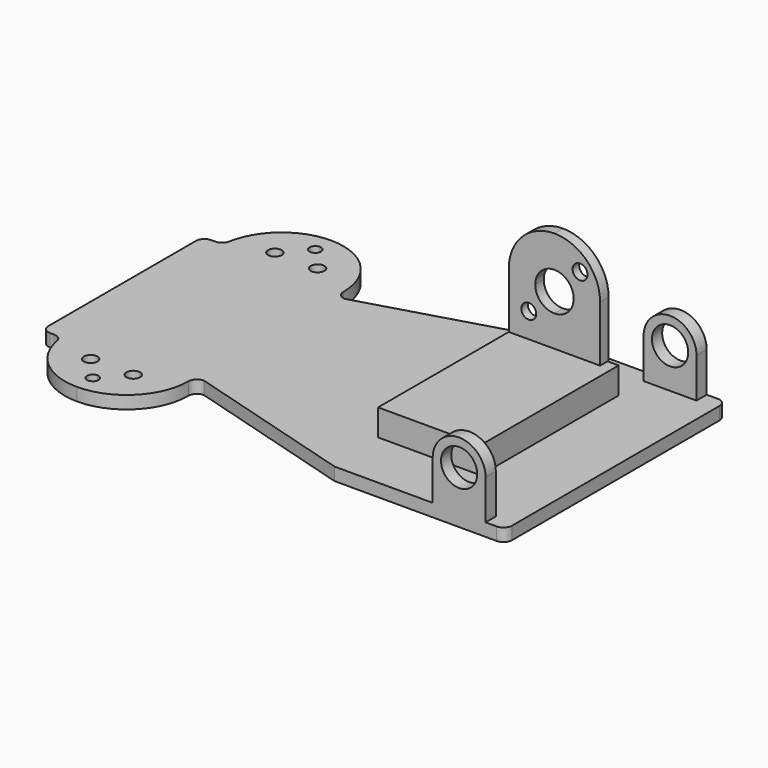
from build123d import *

# Parameters (mm, degrees)
F0_R            = 1.6
F0_W            = 20
F0_H            = 32.4
F1_DEPTH        = 3
F7_DEPTH        = 3
F9_DEPTH        = 3
F11_DEPTH       = 2.5
F12_D           = 3.5
F12_CSINK_D     = 5.5
F12_CSINK_ANGLE = 120
F14_W           = 24
F14_H           = 9.2
F15_DEPTH       = 15.5
F16_DEPTH       = 25


with BuildPart() as f1:
    # F0 (on Top) → F1 (new body)
    with BuildSketch(Plane.XY):
        with BuildLine():
            Line((-197.590603765, 7.6821263526), (-197.590603765, -13.9178736474))
            Line((-197.590603765, -13.9178736474), (-178.390603765, -13.9178736474))
            Line((-178.390603765, -13.9178736474), (-178.390603765, 8.7821263526))
            Line((-178.390603765, 8.7821263526), (-178.390603765, 17.3321263526))
            ThreePointArc((-178.390603765, 17.3321263526), (-179.740603765, 18.6821263526), (-178.390603765, 20.0321263526))
            Line((-178.390603765, 20.0321263526), (-178.390603765, 23.2821263526))
            ThreePointArc((-178.390603765, 23.2821263526), (-187.699120556, 19.8997481824), (-192.6648892104, 11.3306112011))
            ThreePointArc((-192.6648892104, 11.3306112011), (-193.3498228179, 10.1486612726), (-194.6337561684, 9.6821263526))
            Line((-194.6337561684, 9.6821263526), (-195.590603765, 9.6821263526))
            ThreePointArc((-195.590603765, 9.6821263526), (-197.0048173273, 9.096339915), (-197.590603765, 7.6821263526))
        make_face()
        with Locations((-183.390603765, 13.0821263526)):
            Circle(F0_R, mode=Mode.SUBTRACT)
        with BuildLine():
            Line((-178.390603765, -13.9178736474), (-197.590603765, -13.9178736474))
            Line((-197.590603765, -13.9178736474), (-197.590603765, -35.5178736474))
            ThreePointArc((-197.590603765, -35.5178736474), (-197.0048173273, -36.9320872098), (-195.590603765, -37.5178736474))
            Line((-195.590603765, -37.5178736474), (-194.6337561684, -37.5178736474))
            ThreePointArc((-194.6337561684, -37.5178736474), (-193.3498228179, -37.9844085674), (-192.6648892104, -39.1663584959))
            ThreePointArc((-192.6648892104, -39.1663584959), (-187.699120556, -47.7354954773), (-178.390603765, -51.1178736474))
            Line((-178.390603765, -51.1178736474), (-178.390603765, -47.8678736474))
            ThreePointArc((-178.390603765, -47.8678736474), (-179.740603765, -46.5178736474), (-178.390603765, -45.1678736474))
            Line((-178.390603765, -45.1678736474), (-178.390603765, -13.9178736474))
        make_face()
        with Locations((-183.390603765, -40.9178736474)):
            Circle(F0_R, mode=Mode.SUBTRACT)
        with BuildLine():
            Line((-178.390603765, 8.7821263526), (-178.390603765, -13.9178736474))
            Line((-178.390603765, -13.9178736474), (-161.890603765, -13.9178736474))
            Line((-161.890603765, -13.9178736474), (-161.890603765, 6.7821263526))
            ThreePointArc((-161.890603765, 6.7821263526), (-163.3048173273, 7.3679127902), (-163.890603765, 8.7821263526))
            Line((-163.890603765, 8.7821263526), (-178.390603765, 8.7821263526))
        make_face()
        with BuildLine():
            Line((-161.890603765, -13.9178736474), (-178.390603765, -13.9178736474))
            Line((-178.390603765, -13.9178736474), (-178.390603765, -45.1678736474))
            ThreePointArc((-178.390603765, -45.1678736474), (-177.4360096104, -45.5632794928), (-177.040603765, -46.5178736474))
            ThreePointArc((-177.040603765, -46.5178736474), (-177.4360096104, -47.472467802), (-178.390603765, -47.8678736474))
            Line((-178.390603765, -47.8678736474), (-178.390603765, -51.1178736474))
            ThreePointArc((-178.390603765, -51.1178736474), (-168.1375554378, -46.8709219746), (-163.890603765, -36.6178736474))
            ThreePointArc((-163.890603765, -36.6178736474), (-163.3048173273, -35.203660085), (-161.890603765, -34.6178736474))
            Line((-161.890603765, -34.6178736474), (-161.890603765, -13.9178736474))
        make_face()
        with Locations((-173.390603765, -40.9178736474)):
            Circle(F0_R, mode=Mode.SUBTRACT)
        Polygon((-161.890603765, 6.7821263526), (-161.890603765, -13.9178736474), (-121.890603765, -13.9178736474), (-121.890603765, 18.4821263526), align=None)
        Polygon((-121.890603765, -13.9178736474), (-161.890603765, -13.9178736474), (-161.890603765, -34.6178736474), (-121.890603765, -46.3178736474), align=None)
        with BuildLine():
            Line((-178.390603765, 17.3321263526), (-178.390603765, 8.7821263526))
            Line((-178.390603765, 8.7821263526), (-163.890603765, 8.7821263526))
            ThreePointArc((-163.890603765, 8.7821263526), (-168.1375554378, 19.0351746798), (-178.390603765, 23.2821263526))
            Line((-178.390603765, 23.2821263526), (-178.390603765, 20.0321263526))
            ThreePointArc((-178.390603765, 20.0321263526), (-177.4360096104, 19.6367205072), (-177.040603765, 18.6821263526))
            ThreePointArc((-177.040603765, 18.6821263526), (-177.4360096104, 17.727532198), (-178.390603765, 17.3321263526))
        make_face()
        with Locations((-173.390603765, 13.0821263526)):
            Circle(F0_R, mode=Mode.SUBTRACT)
        with Locations((-111.890603765, 2.2821263526)):
            Rectangle(F0_W, F0_H)
        with Locations((-111.890603765, -30.1178736474)):
            Rectangle(F0_W, F0_H)
        with BuildLine():
            Line((-101.890603765, 18.4821263526), (-101.890603765, -13.9178736474))
            Line((-101.890603765, -13.9178736474), (-81.890603765, -13.9178736474))
            Line((-81.890603765, -13.9178736474), (-81.890603765, -5.8178736474))
            Line((-81.890603765, -5.8178736474), (-81.890603765, 16.4821263526))
            ThreePointArc((-81.890603765, 16.4821263526), (-82.4763902026, 17.896339915), (-83.890603765, 18.4821263526))
            Line((-83.890603765, 18.4821263526), (-101.890603765, 18.4821263526))
        make_face()
        with BuildLine():
            Line((-81.890603765, -13.9178736474), (-101.890603765, -13.9178736474))
            Line((-101.890603765, -13.9178736474), (-101.890603765, -46.3178736474))
            Line((-101.890603765, -46.3178736474), (-83.890603765, -46.3178736474))
            ThreePointArc((-83.890603765, -46.3178736474), (-82.4763902026, -45.7320872098), (-81.890603765, -44.3178736474))
            Line((-81.890603765, -44.3178736474), (-81.890603765, -22.0178736474))
            Line((-81.890603765, -22.0178736474), (-81.890603765, -13.9178736474))
        make_face()
    extrude(amount=F1_DEPTH)

    # F6 (on plane+point) → F7 (join)
    with BuildSketch(Plane.XZ.offset(46.3178736474)):
        with BuildLine():
            Line((-98.890603765, 12.3), (-98.890603765, 0))
            Line((-98.890603765, 0), (-86.490603765, 0))
            Line((-86.490603765, 0), (-86.490603765, 12.3))
            Line((-86.490603765, 12.3), (-88.440603765, 12.3))
            ThreePointArc((-88.440603765, 12.3), (-92.690603765, 8.05), (-96.940603765, 12.3))
            Line((-96.940603765, 12.3), (-98.890603765, 12.3))
        make_face()
        with BuildLine():
            ThreePointArc((-86.490603765, 12.3), (-92.690603765, 18.5), (-98.890603765, 12.3))
            Line((-98.890603765, 12.3), (-96.940603765, 12.3))
            ThreePointArc((-96.940603765, 12.3), (-92.690603765, 16.55), (-88.440603765, 12.3))
            Line((-88.440603765, 12.3), (-86.490603765, 12.3))
        make_face()
    extrude(amount=-F7_DEPTH)

    # F8 (on plane+point) → F9 (join)
    with BuildSketch(Plane.XZ.offset(-18.4821263526)):
        with BuildLine():
            Line((-98.890603765, 12.3), (-98.890603765, 0))
            Line((-98.890603765, 0), (-86.490603765, 0))
            Line((-86.490603765, 0), (-86.490603765, 12.3))
            Line((-86.490603765, 12.3), (-88.440603765, 12.3))
            ThreePointArc((-88.440603765, 12.3), (-92.690603765, 8.05), (-96.940603765, 12.3))
            Line((-96.940603765, 12.3), (-98.890603765, 12.3))
        make_face()
        with BuildLine():
            ThreePointArc((-86.490603765, 12.3), (-92.690603765, 18.5), (-98.890603765, 12.3))
            Line((-98.890603765, 12.3), (-96.940603765, 12.3))
            ThreePointArc((-96.940603765, 12.3), (-92.690603765, 16.55), (-88.440603765, 12.3))
            Line((-88.440603765, 12.3), (-86.490603765, 12.3))
        make_face()
    extrude(amount=F9_DEPTH)

    # F10 (on plane+point) → F11 (join)
    with BuildSketch(Plane.XZ.offset(-8.4821263526)):
        with BuildLine():
            Line((-122.890603765, 22.3), (-122.890603765, 0))
            Line((-122.890603765, 0), (-101.490603765, 0))
            Line((-101.490603765, 0), (-101.490603765, 22.3))
            Line((-101.490603765, 22.3), (-107.8824719192, 22.3))
            ThreePointArc((-107.8824719192, 22.3), (-107.738829214, 21.6570413588), (-107.690603765, 21))
            ThreePointArc((-107.690603765, 21), (-109.0086232496, 17.8180194847), (-112.190603765, 16.5))
            ThreePointArc((-112.190603765, 16.5), (-115.3725842803, 17.8180194847), (-116.690603765, 21))
            ThreePointArc((-116.690603765, 21), (-116.6423783159, 21.6570413588), (-116.4987356107, 22.3))
            Line((-116.4987356107, 22.3), (-122.890603765, 22.3))
        make_face()
        with BuildLine():
            ThreePointArc((-112.190603765, 33), (-119.7566463237, 29.8660425587), (-122.890603765, 22.3))
            Line((-122.890603765, 22.3), (-116.4987356107, 22.3))
            ThreePointArc((-116.4987356107, 22.3), (-116.0520683136, 23.3106474287), (-115.3725842803, 24.1819805153))
            ThreePointArc((-115.3725842803, 24.1819805153), (-113.9126792106, 25.1574578963), (-112.190603765, 25.5))
            Line((-112.190603765, 25.5), (-112.190603765, 33))
        make_face()
        with BuildLine():
            Line((-107.8824719192, 22.3), (-101.490603765, 22.3))
            ThreePointArc((-101.490603765, 22.3), (-104.6245612063, 29.8660425587), (-112.190603765, 33))
            Line((-112.190603765, 33), (-112.190603765, 25.5))
            ThreePointArc((-112.190603765, 25.5), (-109.507322192, 24.6124783736), (-107.8824719192, 22.3))
        make_face()
    extrude(amount=F11_DEPTH)

    # F12 (through all)
    with Locations(Plane(origin=(0, 8.4821263526, 0), x_dir=(1, 0, 0), z_dir=(0, 1, 0))):
        with Locations((-106.1801961249, -27.0104076401), (-118.201011405, -14.9895923599)):
            CounterSinkHole(F12_D / 2, F12_CSINK_D / 2, counter_sink_angle=F12_CSINK_ANGLE)

    # F14 (on plane+point) → F15 (join)
    with BuildSketch(Plane.XZ.offset(7.3178736474)):
        with Locations((-110.890603765, 4.6)):
            Rectangle(F14_W, F14_H)
    extrude(amount=-F15_DEPTH)

    # F14 (on plane+point) → F16 (join)
    with BuildSketch(Plane.XZ.offset(7.3178736474)):
        with Locations((-110.890603765, 4.6)):
            Rectangle(F14_W, F14_H)
    extrude(amount=F16_DEPTH)


solid = f1.part
